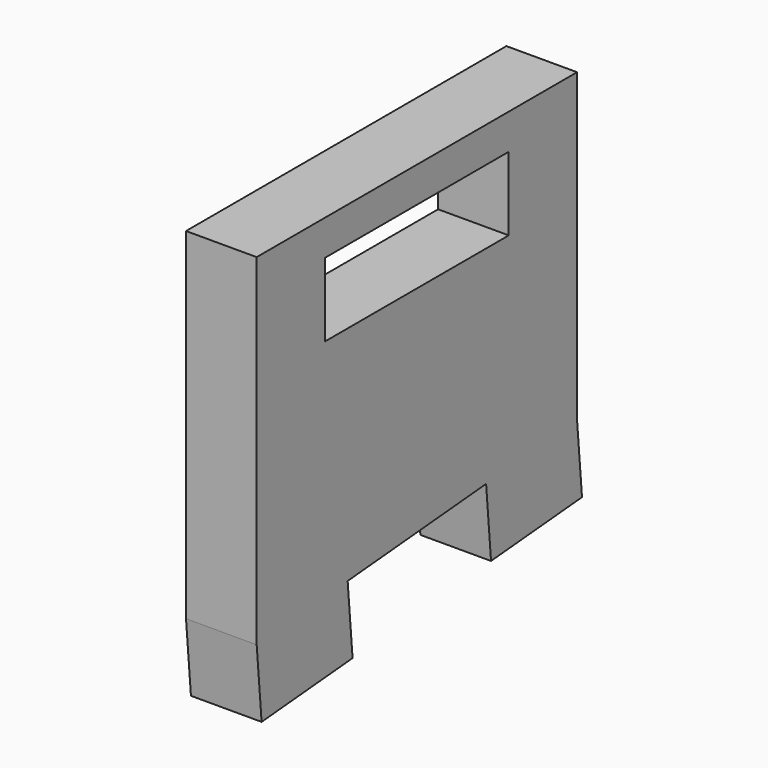
from build123d import *

# Parameters (mm, degrees)
F1_DEPTH = 3
F3_DEPTH = 3
F4_W     = 19.5
F4_H     = 6.25
F5_DEPTH = 6


with BuildPart() as f1:
    # F0 (on Right) → F1 (new body, symmetric)
    with BuildSketch(Plane.YZ):
        Polygon((17, -26), (17, 0), (-17, 0), (-17, -28.974615), align=None)
    extrude(amount=F1_DEPTH, both=True)

    # F2 (on Right) → F3 (join, symmetric)
    with BuildSketch(Plane.YZ):
        Polygon((-17, -28.974615), (-16.477066, -34.951783), (-6.824001, -34.107249), (-7.346936, -28.130081), align=None)
        Polygon((17.522934, -31.977168), (17, -26), (7.346936, -26.844534), (7.86987, -32.821702), align=None)
    extrude(amount=F3_DEPTH, both=True)

    # F4 (on face) → F5 (cut, through all)
    with BuildSketch(Plane.YZ.offset(3)):
        with Locations((0, -6.125)):
            Rectangle(F4_W, F4_H)
    extrude(amount=-F5_DEPTH, mode=Mode.SUBTRACT)


solid = f1.part
